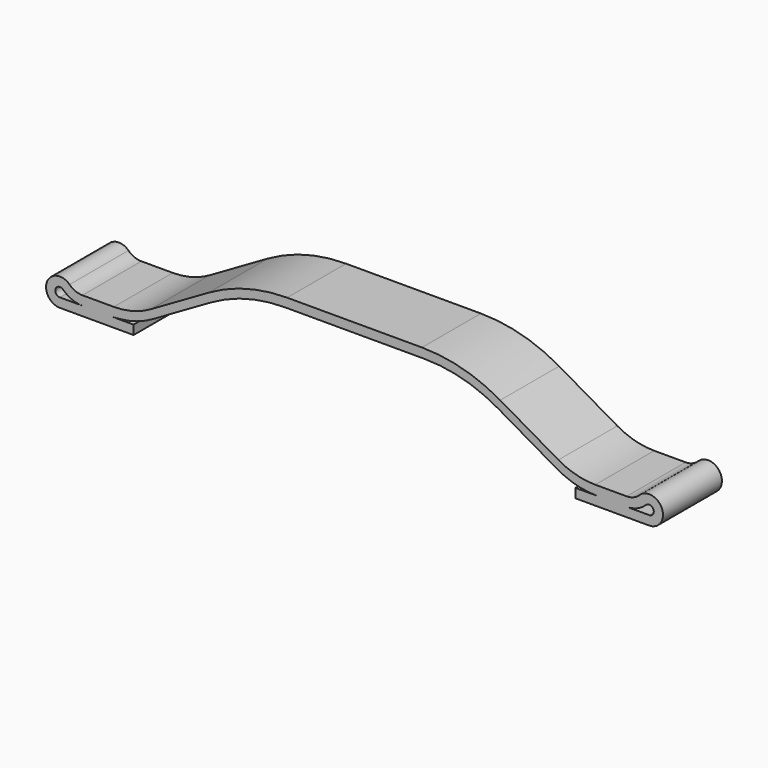
from build123d import *

# Parameters (mm, degrees)
F1_DEPTH = 25.4


with BuildPart() as f1:
    # F0 (on Front) → F1 (new body)
    with BuildSketch(Plane.XZ):
        with BuildLine():
            Line((-101.6, 0), (-76.2, 0))
            Line((-76.2, 0), (-76.2, 3.175))
            Line((-76.2, 3.175), (-83.856648, 3.175))
            ThreePointArc((-83.856648, 3.175), (-76.460894, 4.14867), (-69.569148, 7.003324))
            Line((-69.569148, 7.003324), (-49.493352, 18.594091))
            ThreePointArc((-49.493352, 18.594091), (-37.241359, 23.669032), (-24.093352, 25.4))
            Line((-24.093352, 25.4), (0, 25.4))
            Line((0, 25.4), (0, 28.575))
            Line((0, 28.575), (-23.242613, 28.575))
            ThreePointArc((-23.242613, 28.575), (-37.212371, 26.735846), (-50.230113, 21.343721))
            Line((-50.230113, 21.343721), (-70.305909, 9.752955))
            ThreePointArc((-70.305909, 9.752955), (-76.431906, 7.215484), (-83.005909, 6.35))
            Line((-83.005909, 6.35), (-93.82287, 6.35))
            ThreePointArc((-93.82287, 6.35), (-96.222944, 6.821042), (-98.266944, 8.164286))
            ThreePointArc((-98.266944, 8.164286), (-106.009218, 6.562556), (-101.6, 0))
        make_face()
        with BuildLine():
            ThreePointArc((-100.488981, 5.896429), (-97.422982, 3.881564), (-93.82287, 3.175))
            Line((-93.82287, 3.175), (-101.6, 3.175))
            ThreePointArc((-101.6, 3.175), (-103.069739, 5.362519), (-100.488981, 5.896429))
        make_face(mode=Mode.SUBTRACT)
        with BuildLine():
            Line((0, 28.575), (0, 25.4))
            Line((0, 25.4), (24.093352, 25.4))
            ThreePointArc((24.093352, 25.4), (37.241359, 23.669032), (49.493352, 18.594091))
            Line((49.493352, 18.594091), (69.569148, 7.003324))
            ThreePointArc((69.569148, 7.003324), (76.460894, 4.14867), (83.856648, 3.175))
            Line((83.856648, 3.175), (76.2, 3.175))
            Line((76.2, 3.175), (76.2, 0))
            Line((76.2, 0), (101.6, 0))
            ThreePointArc((101.6, 0), (106.009218, 6.562556), (98.266944, 8.164286))
            ThreePointArc((98.266944, 8.164286), (96.222944, 6.821042), (93.82287, 6.35))
            Line((93.82287, 6.35), (83.005909, 6.35))
            ThreePointArc((83.005909, 6.35), (76.431906, 7.215484), (70.305909, 9.752955))
            Line((70.305909, 9.752955), (50.230113, 21.343721))
            ThreePointArc((50.230113, 21.343721), (37.212371, 26.735846), (23.242613, 28.575))
            Line((23.242613, 28.575), (0, 28.575))
        make_face()
        with BuildLine():
            Line((101.6, 3.175), (93.82287, 3.175))
            ThreePointArc((93.82287, 3.175), (97.422982, 3.881564), (100.488981, 5.896429))
            ThreePointArc((100.488981, 5.896429), (103.069739, 5.362519), (101.6, 3.175))
        make_face(mode=Mode.SUBTRACT)
    extrude(amount=F1_DEPTH)


solid = f1.part
